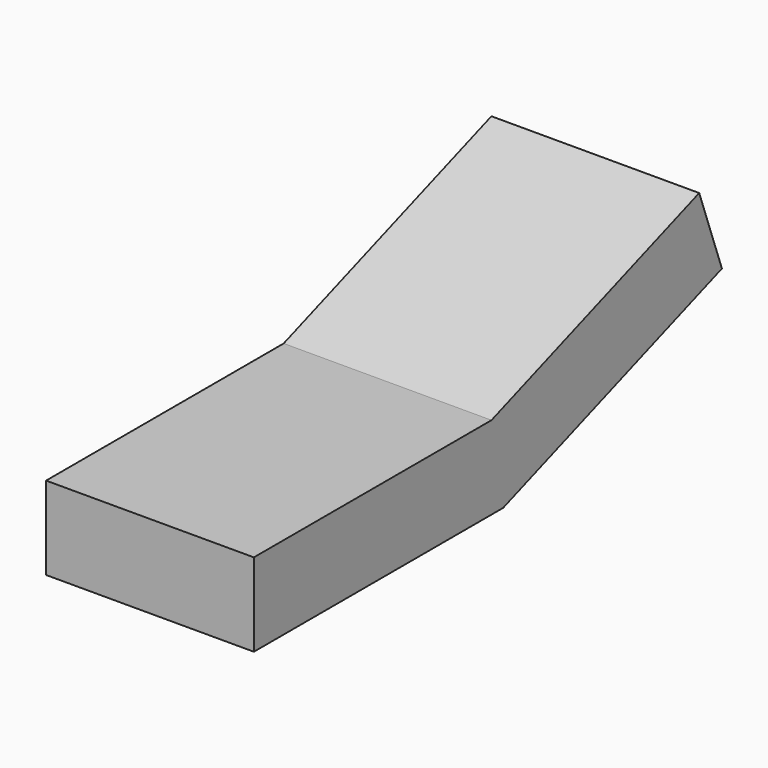
from build123d import *

# Parameters (mm, degrees)
BOX001_W               = 0.5
BOX001_H               = 0.75
BOX001_DEPTH           = 0.2
BOX002_W               = 0.5
BOX002_H               = 0.7
BOX002_DEPTH           = 0.2
BOX002_PLACEMENT_ANGLE = 20


with BuildPart() as cube001:
    # Box001 → Box001 (new body)
    with BuildSketch(Plane(origin=(0, -1.25, 0), x_dir=(1, 0, 0), z_dir=(0, 0, 1))):
        with Locations((0.25, 0.375)):
            Rectangle(BOX001_W, BOX001_H)
    extrude(amount=BOX001_DEPTH)


with BuildPart() as fusion:
    # Box002 → Box002 (new body)
    with BuildSketch(Plane.XY):
        with Locations((0.25, 0.35)):
            Rectangle(BOX002_W, BOX002_H)
    extrude(amount=BOX002_DEPTH)


with BuildPart() as fusion_1:
    # Box002 placement: moved
    add(fusion.part.moved(Location((0, -0.5, 0))).rotate(Axis((0, -0.5, 0), (1, 0, 0)), BOX002_PLACEMENT_ANGLE))

    # Fusion: union Cube001
    add(cube001.part)


with BuildPart() as fusion_2:
    # Fusion placement: moved
    add(fusion_1.part.moved(Location((3.35, 0, 0))))


solid = fusion_2.part
